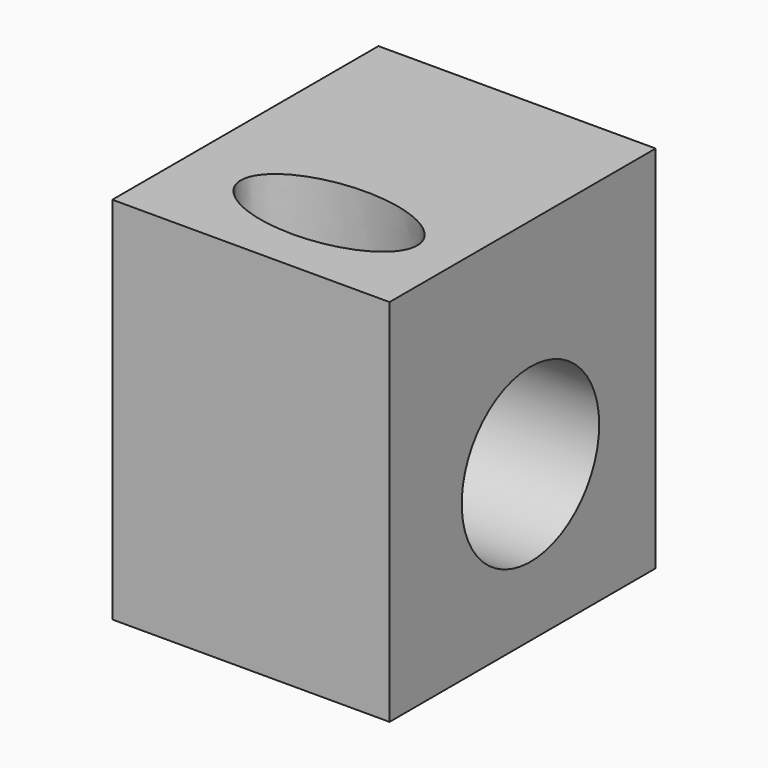
from build123d import *

# Parameters (mm, degrees)
F0_W     = 38.1
F0_H     = 50.8
F1_DEPTH = 45.72
F4_DEPTH = 71.12
F5_R     = 11.807357
F6_DEPTH = 90.17


with BuildPart() as f1:
    # F0 (on Front) → F1 (new body)
    with BuildSketch(Plane.XZ):
        with Locations((-1.025561, -6.963143)):
            Rectangle(F0_W, F0_H)
    extrude(amount=F1_DEPTH)

    # F3 (on face) → F4 (cut)
    with BuildSketch(Plane.XY.offset(18.436857)):
        with BuildLine():
            add(Edge.make_bspline(
                [(12.12835, -33.585556), (12.12835, -22.646572), (-6.064175, -28.116064), (-24.256701, -33.585556), (-6.064175, -39.055048), (12.12835, -44.524539), (12.12835, -33.585556)],
                knots=[0, 0, 0, 2.094395, 2.094395, 4.18879, 4.18879, 6.283185, 6.283185, 6.283185], degree=2, weights=[1, 0.5, 1, 0.5, 1, 0.5, 1]))
        make_face()
    extrude(amount=-F4_DEPTH, mode=Mode.SUBTRACT)

    # F5 (on face) → F6 (cut)
    with BuildSketch(Plane.YZ.offset(18.024439)):
        with Locations((-21.510221, -11.027101)):
            Circle(F5_R)
    extrude(amount=-F6_DEPTH, mode=Mode.SUBTRACT)


solid = f1.part
